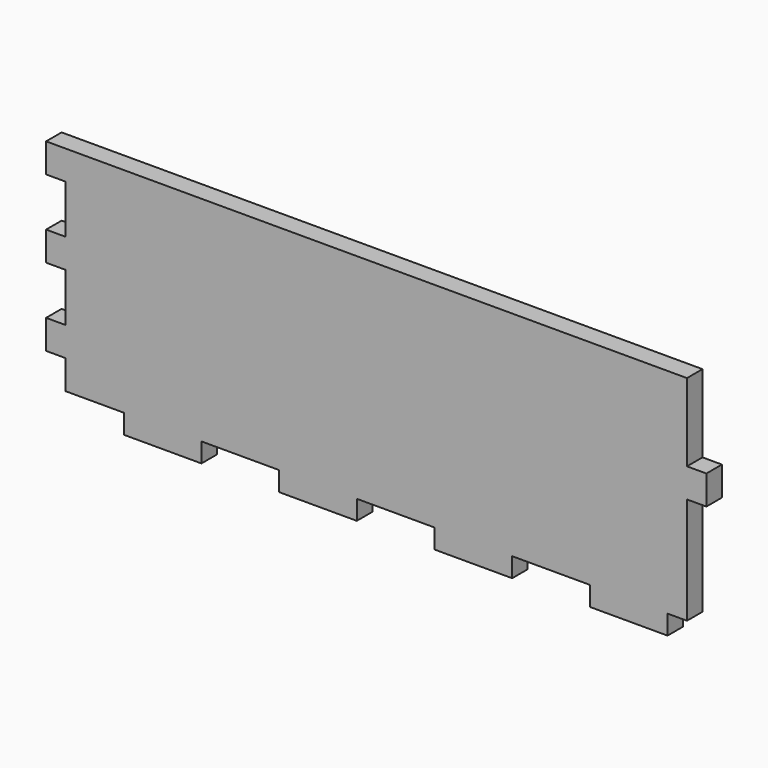
from build123d import *

# Parameters (mm, degrees)
F0_W     = 215.9
F0_H     = 76.2
F1_DEPTH = 6.35
F2_W     = 6.35
F2_H     = 15.875
F2_H_2   = 9.525
F3_DEPTH = 6.35
F4_W     = 25.4
F4_H     = 6.35
F5_DEPTH = 6.351
F6_W     = 6.35
F6_H     = 9.525
F7_DEPTH = 6.35


with BuildPart() as f1:
    # F0 (on Front) → F1 (new body)
    with BuildSketch(Plane.XZ):
        with Locations((107.95, 38.1)):
            Rectangle(F0_W, F0_H)
    extrude(amount=F1_DEPTH)

    # F2 (on face) → F3 (cut, through all)
    with BuildSketch(Plane.XZ.offset(6.35)):
        with Locations((3.175, 58.7375)):
            Rectangle(F2_W, F2_H)
        with Locations((3.175, 33.3375)):
            Rectangle(F2_W, F2_H)
        with Locations((3.175, 11.1125)):
            Rectangle(F2_W, F2_H_2)
        with Locations((212.725, 11.1125)):
            Rectangle(F2_W, F2_H_2)
        with Locations((212.725, 33.3375)):
            Rectangle(F2_W, F2_H)
        with Locations((212.725, 58.7375)):
            Rectangle(F2_W, F2_H)
    extrude(amount=-F3_DEPTH, mode=Mode.SUBTRACT)

    # F4 (on face) → F5 (cut, through all)
    with BuildSketch(Plane.XZ.offset(6.35)):
        with Locations((12.7, 3.175)):
            Rectangle(F4_W, F4_H)
        with Locations((63.5, 3.175)):
            Rectangle(F4_W, F4_H)
        with Locations((114.3, 3.175)):
            Rectangle(F4_W, F4_H)
        with Locations((165.1, 3.175)):
            Rectangle(F4_W, F4_H)
        with Locations((215.9, 3.175)):
            Rectangle(F4_W, F4_H)
    extrude(amount=-F5_DEPTH, mode=Mode.SUBTRACT)

    # F6 (on face) → F7 (cut, through all)
    with BuildSketch(Plane.XZ.offset(6.35)):
        with Locations((212.725, 20.6375)):
            Rectangle(F6_W, F6_H)
        with Locations((212.725, 71.4375)):
            Rectangle(F6_W, F6_H)
    extrude(amount=-F7_DEPTH, mode=Mode.SUBTRACT)


solid = f1.part
